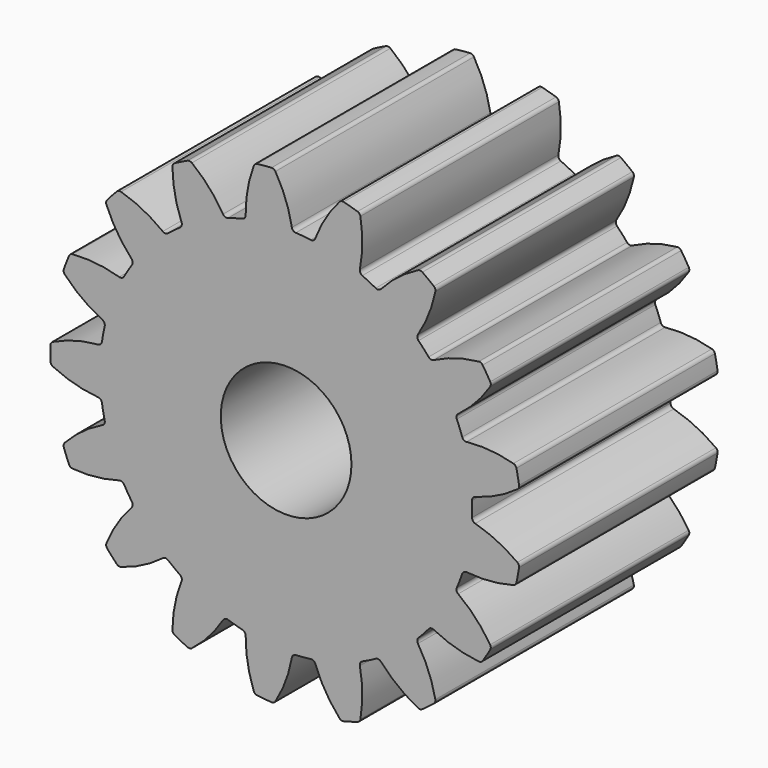
from build123d import *

# Parameters (mm, degrees)
F0_R     = 1.58
F1_DEPTH = 3


with BuildPart() as f1:
    # F0 (on Front) → F1 (new body, symmetric)
    with BuildSketch(Plane.XZ):
        with BuildLine():
            ThreePointArc((0.2343711724, 4.4938925392), (0.1720234101, 4.5194252055), (0.1391951016, 4.578259402))
            ThreePointArc((0.1391951016, 4.578259402), (-0.0102810807, 5.1278266107), (-0.2590107559, 5.6401749243))
            ThreePointArc((-0.2590107559, 5.6401749243), (-0.298954368, 5.6776678833), (-0.3525342184, 5.6890877674))
            ThreePointArc((-0.3525342184, 5.6890877674), (-0.5259296489, 5.6756848049), (-0.6988354807, 5.6569982297))
            ThreePointArc((-0.6988354807, 5.6569982297), (-0.7494046341, 5.6359275192), (-0.7817788172, 5.5917333296))
            ThreePointArc((-0.7817788172, 5.5917333296), (-0.9321296414, 5.0424047617), (-0.978077998, 4.4747288028))
            ThreePointArc((-0.978077998, 4.4747288028), (-0.999536587, 4.4108641844), (-1.056131145, 4.374309889))
            ThreePointArc((-1.056131145, 4.374309889), (-1.2314834553, 4.3282153943), (-1.4048366189, 4.2750946275))
            ThreePointArc((-1.4048366189, 4.2750946275), (-2.005822601, 4.0282348111), (-2.564995956, 3.6974039197))
            ThreePointArc((-2.564995956, 3.6974039197), (-2.7118558637, 3.5910775228), (-2.8543134403, 3.4789214973))
            ThreePointArc((-2.8543134403, 3.4789214973), (-3.3255401275, 3.0316303964), (-3.72744385, 2.5211430631))
            ThreePointArc((-3.72744385, 2.5211430631), (-3.8259771108, 2.3689447329), (-3.9182994153, 2.2129007415))
            ThreePointArc((-3.9182994153, 2.2129007415), (-4.1961250323, 1.6255874978), (-4.3864797977, 1.0043878657))
            ThreePointArc((-4.3864797977, 1.0043878657), (-4.4233789486, 0.8268728302), (-4.4530973423, 0.6480154785))
            ThreePointArc((-4.4530973423, 0.6480154785), (-4.5, 0), (-4.4530973423, -0.6480154785))
            ThreePointArc((-4.4530973423, -0.6480154785), (-4.4233789486, -0.8268728302), (-4.3864797977, -1.0043878657))
            ThreePointArc((-4.3864797977, -1.0043878657), (-4.1961250323, -1.6255874978), (-3.9182994153, -2.2129007415))
            ThreePointArc((-3.9182994153, -2.2129007415), (-3.8259771108, -2.3689447329), (-3.72744385, -2.5211430631))
            ThreePointArc((-3.72744385, -2.5211430631), (-3.3255401275, -3.0316303964), (-2.8543134403, -3.4789214973))
            ThreePointArc((-2.8543134403, -3.4789214973), (-2.7118558637, -3.5910775228), (-2.564995956, -3.6974039197))
            ThreePointArc((-2.564995956, -3.6974039197), (-2.005822601, -4.0282348111), (-1.4048366189, -4.2750946275))
            ThreePointArc((-1.4048366189, -4.2750946275), (-1.2314834553, -4.3282153943), (-1.056131145, -4.374309889))
            ThreePointArc((-1.056131145, -4.374309889), (-0.4152076176, -4.4808037933), (0.2343711724, -4.4938925392))
            ThreePointArc((0.2343711724, -4.4938925392), (0.4152076176, -4.4808037933), (0.5953700294, -4.4604410688))
            ThreePointArc((0.5953700294, -4.4604410688), (1.2314834553, -4.3282153943), (1.8419258381, -4.1057653619))
            ThreePointArc((1.8419258381, -4.1057653619), (2.005822601, -4.0282348111), (2.1664631823, -3.9441649661))
            ThreePointArc((2.1664631823, -3.9441649661), (2.7118558637, -3.5910775228), (3.200718213, -3.1631318216))
            ThreePointArc((3.200718213, -3.1631318216), (3.3255401275, -3.0316303964), (3.4449634776, -2.8952075294))
            ThreePointArc((3.4449634776, -2.8952075294), (3.8259771108, -2.3689447329), (4.1272358574, -1.7932998014))
            ThreePointArc((4.1272358574, -1.7932998014), (4.1961250323, -1.6255874978), (4.258202366, -1.4552362729))
            ThreePointArc((4.258202366, -1.4552362729), (4.4233789486, -0.8268728302), (4.4963474294, -0.1812727059))
            ThreePointArc((4.4963474294, -0.1812727059), (4.5, 0), (4.4963474294, 0.1812727059))
            ThreePointArc((4.4963474294, 0.1812727059), (4.4233789486, 0.8268728302), (4.258202366, 1.4552362729))
            ThreePointArc((4.258202366, 1.4552362729), (4.1961250323, 1.6255874978), (4.1272358574, 1.7932998014))
            ThreePointArc((4.1272358574, 1.7932998014), (3.8259771108, 2.3689447329), (3.4449634776, 2.8952075294))
            ThreePointArc((3.4449634776, 2.8952075294), (3.3255401275, 3.0316303964), (3.200718213, 3.1631318216))
            ThreePointArc((3.200718213, 3.1631318216), (2.7118558637, 3.5910775228), (2.1664631823, 3.9441649661))
            ThreePointArc((2.1664631823, 3.9441649661), (2.005822601, 4.0282348111), (1.8419258381, 4.1057653619))
            ThreePointArc((1.8419258381, 4.1057653619), (1.2314834553, 4.3282153943), (0.5953700294, 4.4604410688))
            ThreePointArc((0.5953700294, 4.4604410688), (0.4152076176, 4.4808037933), (0.2343711724, 4.4938925392))
        make_face()
        Circle(F0_R, mode=Mode.SUBTRACT)
        with BuildLine():
            ThreePointArc((0.7044279171, 4.5258828684), (0.6613478177, 4.4740826217), (0.5953700294, 4.4604410688))
            ThreePointArc((0.5953700294, 4.4604410688), (1.2314834553, 4.3282153943), (1.8419258381, 4.1057653619))
            ThreePointArc((1.8419258381, 4.1057653619), (1.7930117442, 4.1520964738), (1.7836536213, 4.218816681))
            ThreePointArc((1.7836536213, 4.218816681), (1.8427978066, 4.7852698663), (1.7959458503, 5.3528719629))
            ThreePointArc((1.7959458503, 5.3528719629), (1.7722435602, 5.402262403), (1.7264071756, 5.4322664022))
            ThreePointArc((1.7264071756, 5.4322664022), (1.5598790434, 5.4824061661), (1.3918987875, 5.5274422444))
            ThreePointArc((1.3918987875, 5.5274422444), (1.3371328376, 5.5260620773), (1.2909800283, 5.4965471266))
            ThreePointArc((1.2909800283, 5.4965471266), (0.9523416929, 5.0386264745), (0.7044279171, 4.5258828684))
        make_face()
        with BuildLine():
            ThreePointArc((2.2917969387, 3.9657913738), (2.2329135349, 3.9330514092), (2.1664631823, 3.9441649661))
            ThreePointArc((2.1664631823, 3.9441649661), (2.7118558637, 3.5910775228), (3.200718213, 3.1631318216))
            ThreePointArc((3.200718213, 3.1631318216), (3.1718439068, 3.2240041056), (3.1872198359, 3.2895993899))
            ThreePointArc((3.1872198359, 3.2895993899), (3.4469966387, 3.7964359105), (3.6083500177, 4.3426339816))
            ThreePointArc((3.6083500177, 4.3426339816), (3.6040901753, 4.3972514501), (3.5721877142, 4.4417873581))
            ThreePointArc((3.5721877142, 4.4417873581), (3.4350174274, 4.5486981955), (3.2946494116, 4.6513745554))
            ThreePointArc((3.2946494116, 4.6513745554), (3.2430831104, 4.6698713308), (3.1893848674, 4.6590217768))
            ThreePointArc((3.1893848674, 4.6590217768), (2.7081940045, 4.3543537619), (2.2917969387, 3.9657913738))
        make_face()
        with BuildLine():
            ThreePointArc((3.5696460844, 2.870097779), (3.5029119062, 2.8608398101), (3.4449634776, 2.8952075294))
            ThreePointArc((3.4449634776, 2.8952075294), (3.8259771108, 2.3689447329), (4.1272358574, 1.7932998014))
            ThreePointArc((4.1272358574, 1.7932998014), (4.122300974, 1.8604921182), (4.1603343507, 1.9161034729))
            ThreePointArc((4.1603343507, 1.9161034729), (4.5856594743, 2.2948722481), (4.9334265206, 2.7458992178))
            ThreePointArc((4.9334265206, 2.7458992178), (4.9491844412, 2.7983673229), (4.9355245078, 2.8514203185))
            ThreePointArc((4.9355245078, 2.8514203185), (4.8462376737, 3.0006633284), (4.7524393764, 3.1471129586))
            ThreePointArc((4.7524393764, 3.1471129586), (4.7110370385, 3.1829885845), (4.6570456072, 3.1922697194))
            ThreePointArc((4.6570456072, 3.1922697194), (4.0982897091, 3.0820014455), (3.5696460844, 2.870097779))
        make_face()
        with BuildLine():
            ThreePointArc((-2.564995956, 3.6974039197), (-2.005822601, 4.0282348111), (-1.4048366189, 4.2750946275))
            ThreePointArc((-1.4048366189, 4.2750946275), (-1.4721976388, 4.2763805203), (-1.5240624879, 4.3193828218))
            ThreePointArc((-1.5240624879, 4.3193828218), (-1.861971451, 4.7778419569), (-2.2789865242, 5.1657410089))
            ThreePointArc((-2.2789865242, 5.1657410089), (-2.3297768522, 5.186272855), (-2.3838639127, 5.1775663053))
            ThreePointArc((-2.3838639127, 5.1775663053), (-2.5407086279, 5.1024307607), (-2.6951881448, 5.0225452576))
            ThreePointArc((-2.6951881448, 5.0225452576), (-2.7347308575, 4.9846297199), (-2.7489541015, 4.9317249616))
            ThreePointArc((-2.7489541015, 4.9317249616), (-2.6907117026, 4.365178345), (-2.5284890598, 3.819237817))
            ThreePointArc((-2.5284890598, 3.819237817), (-2.5254280369, 3.7519340976), (-2.564995956, 3.6974039197))
        make_face()
        with BuildLine():
            ThreePointArc((4.3653947463, 1.3867815754), (4.2998226143, 1.4022559422), (4.258202366, 1.4552362729))
            ThreePointArc((4.258202366, 1.4552362729), (4.4233789486, 0.8268728302), (4.4963474294, 0.1812727059))
            ThreePointArc((4.4963474294, 0.1812727059), (4.5160184522, 0.2457103609), (4.5715726582, 0.2838271644))
            ThreePointArc((4.5715726582, 0.2838271644), (5.1050035879, 0.4833733724), (5.5922164349, 0.778315549))
            ThreePointArc((5.5922164349, 0.778315549), (5.625863924, 0.8215481825), (5.6322913679, 0.8759531647))
            ThreePointArc((5.6322913679, 0.8759531647), (5.6029466682, 1.0473722516), (5.5683860692, 1.2178163179))
            ThreePointArc((5.5683860692, 1.2178163179), (5.5427393098, 1.2662255923), (5.4957465321, 1.2943839475))
            ThreePointArc((5.4957465321, 1.2943839475), (4.9348886791, 1.3934077558), (4.3653947463, 1.3867815754))
        make_face()
        with BuildLine():
            ThreePointArc((-3.72744385, 2.5211430631), (-3.3255401275, 3.0316303964), (-2.8543134403, 3.4789214973))
            ThreePointArc((-2.8543134403, 3.4789214973), (-2.9175902387, 3.4557869496), (-2.9814869933, 3.477149657))
            ThreePointArc((-2.9814869933, 3.477149657), (-3.4621922593, 3.782583272), (-3.9911725342, 3.9936451459))
            ThreePointArc((-3.9911725342, 3.9936451459), (-4.0459500628, 3.9944429394), (-4.0932395762, 3.9667858238))
            ThreePointArc((-4.0932395762, 3.9667858238), (-4.2123508282, 3.8400651688), (-4.3275407154, 3.7097697175))
            ThreePointArc((-4.3275407154, 3.7097697175), (-4.3507165248, 3.6601300562), (-4.3448679018, 3.6056598099))
            ThreePointArc((-4.3448679018, 3.6056598099), (-4.0858982385, 3.0984104044), (-3.7374136632, 2.647937601))
            ThreePointArc((-3.7374136632, 2.647937601), (-3.7102464366, 2.5862845206), (-3.72744385, 2.5211430631))
        make_face()
        with BuildLine():
            ThreePointArc((4.5715726582, -0.2838271644), (4.5160184522, -0.2457103609), (4.4963474294, -0.1812727059))
            ThreePointArc((4.4963474294, -0.1812727059), (4.4233789486, -0.8268728302), (4.258202366, -1.4552362729))
            ThreePointArc((4.258202366, -1.4552362729), (4.2998226143, -1.4022559422), (4.3653947463, -1.3867815754))
            ThreePointArc((4.3653947463, -1.3867815754), (4.9348886791, -1.3934077558), (5.4957465321, -1.2943839475))
            ThreePointArc((5.4957465321, -1.2943839475), (5.5427393098, -1.2662255923), (5.5683860692, -1.2178163179))
            ThreePointArc((5.5683860692, -1.2178163179), (5.6029466682, -1.0473722516), (5.6322913679, -0.8759531647))
            ThreePointArc((5.6322913679, -0.8759531647), (5.625863924, -0.8215481825), (5.5922164349, -0.778315549))
            ThreePointArc((5.5922164349, -0.778315549), (5.1050035879, -0.4833733724), (4.5715726582, -0.2838271644))
        make_face()
        with BuildLine():
            ThreePointArc((-4.3864797977, 1.0043878657), (-4.1961250323, 1.6255874978), (-3.9182994153, 2.2129007415))
            ThreePointArc((-3.9182994153, 2.2129007415), (-3.9689461101, 2.1684702021), (-4.0362451593, 2.1653081634))
            ThreePointArc((-4.0362451593, 2.1653081634), (-4.5948248183, 2.2764657561), (-5.1643285775, 2.2821853764))
            ThreePointArc((-5.1643285775, 2.2821853764), (-5.2156952981, 2.263141371), (-5.2498005535, 2.2202689361))
            ThreePointArc((-5.2498005535, 2.2202689361), (-5.3150917076, 2.0590774973), (-5.3754349326, 1.8959692205))
            ThreePointArc((-5.3754349326, 1.8959692205), (-5.3791138174, 1.8413095468), (-5.3539832163, 1.7926303212))
            ThreePointArc((-5.3539832163, 1.7926303212), (-4.9292615766, 1.4131849699), (-4.4415798417, 1.1190187392))
            ThreePointArc((-4.4415798417, 1.1190187392), (-4.3939754959, 1.0713428881), (-4.3864797977, 1.0043878657))
        make_face()
        with BuildLine():
            ThreePointArc((4.1603343507, -1.9161034729), (4.122300974, -1.8604921182), (4.1272358574, -1.7932998014))
            ThreePointArc((4.1272358574, -1.7932998014), (3.8259771108, -2.3689447329), (3.4449634776, -2.8952075294))
            ThreePointArc((3.4449634776, -2.8952075294), (3.5029119062, -2.8608398101), (3.5696460844, -2.870097779))
            ThreePointArc((3.5696460844, -2.870097779), (4.0982897091, -3.0820014455), (4.6570456072, -3.1922697194))
            ThreePointArc((4.6570456072, -3.1922697194), (4.7110370385, -3.1829885845), (4.7524393764, -3.1471129586))
            ThreePointArc((4.7524393764, -3.1471129586), (4.8462376737, -3.0006633284), (4.9355245078, -2.8514203185))
            ThreePointArc((4.9355245078, -2.8514203185), (4.9491844412, -2.7983673229), (4.9334265206, -2.7458992178))
            ThreePointArc((4.9334265206, -2.7458992178), (4.5856594743, -2.2948722481), (4.1603343507, -1.9161034729))
        make_face()
        with BuildLine():
            ThreePointArc((-4.4530973423, -0.6480154785), (-4.5, 0), (-4.4530973423, 0.6480154785))
            ThreePointArc((-4.4530973423, 0.6480154785), (-4.4842738165, 0.588289538), (-4.5458860509, 0.561029804))
            ThreePointArc((-4.5458860509, 0.561029804), (-5.1069008248, 0.4628989256), (-5.64001343, 0.2625038257))
            ThreePointArc((-5.64001343, 0.2625038257), (-5.6810319822, 0.2261900198), (-5.6973468759, 0.1738924256))
            ThreePointArc((-5.6973468759, 0.1738924256), (-5.7, 0), (-5.6973468759, -0.1738924256))
            ThreePointArc((-5.6973468759, -0.1738924256), (-5.6810319822, -0.2261900198), (-5.64001343, -0.2625038257))
            ThreePointArc((-5.64001343, -0.2625038257), (-5.1069008248, -0.4628989256), (-4.5458860509, -0.561029804))
            ThreePointArc((-4.5458860509, -0.561029804), (-4.4842738165, -0.588289538), (-4.4530973423, -0.6480154785))
        make_face()
        with BuildLine():
            ThreePointArc((3.1872198359, -3.2895993899), (3.1718439068, -3.2240041056), (3.200718213, -3.1631318216))
            ThreePointArc((3.200718213, -3.1631318216), (2.7118558637, -3.5910775228), (2.1664631823, -3.9441649661))
            ThreePointArc((2.1664631823, -3.9441649661), (2.2329135349, -3.9330514092), (2.2917969387, -3.9657913738))
            ThreePointArc((2.2917969387, -3.9657913738), (2.7081940045, -4.3543537619), (3.1893848674, -4.6590217768))
            ThreePointArc((3.1893848674, -4.6590217768), (3.2430831104, -4.6698713308), (3.2946494116, -4.6513745554))
            ThreePointArc((3.2946494116, -4.6513745554), (3.4350174274, -4.5486981955), (3.5721877142, -4.4417873581))
            ThreePointArc((3.5721877142, -4.4417873581), (3.6040901753, -4.3972514501), (3.6083500177, -4.3426339816))
            ThreePointArc((3.6083500177, -4.3426339816), (3.4469966387, -3.7964359105), (3.1872198359, -3.2895993899))
        make_face()
        with BuildLine():
            ThreePointArc((-3.9182994153, -2.2129007415), (-4.1961250323, -1.6255874978), (-4.3864797977, -1.0043878657))
            ThreePointArc((-4.3864797977, -1.0043878657), (-4.3939754959, -1.0713428881), (-4.4415798417, -1.1190187392))
            ThreePointArc((-4.4415798417, -1.1190187392), (-4.9292615766, -1.4131849699), (-5.3539832163, -1.7926303212))
            ThreePointArc((-5.3539832163, -1.7926303212), (-5.3791138174, -1.8413095468), (-5.3754349326, -1.8959692205))
            ThreePointArc((-5.3754349326, -1.8959692205), (-5.3150917076, -2.0590774973), (-5.2498005535, -2.2202689361))
            ThreePointArc((-5.2498005535, -2.2202689361), (-5.2156952981, -2.263141371), (-5.1643285775, -2.2821853764))
            ThreePointArc((-5.1643285775, -2.2821853764), (-4.5948248183, -2.2764657561), (-4.0362451593, -2.1653081634))
            ThreePointArc((-4.0362451593, -2.1653081634), (-3.9689461101, -2.1684702021), (-3.9182994153, -2.2129007415))
        make_face()
        with BuildLine():
            ThreePointArc((1.7836536213, -4.218816681), (1.7930117442, -4.1520964738), (1.8419258381, -4.1057653619))
            ThreePointArc((1.8419258381, -4.1057653619), (1.2314834553, -4.3282153943), (0.5953700294, -4.4604410688))
            ThreePointArc((0.5953700294, -4.4604410688), (0.6613478177, -4.4740826217), (0.7044279171, -4.5258828684))
            ThreePointArc((0.7044279171, -4.5258828684), (0.9523416929, -5.0386264745), (1.2909800283, -5.4965471266))
            ThreePointArc((1.2909800283, -5.4965471266), (1.3371328376, -5.5260620773), (1.3918987875, -5.5274422444))
            ThreePointArc((1.3918987875, -5.5274422444), (1.5598790434, -5.4824061661), (1.7264071756, -5.4322664022))
            ThreePointArc((1.7264071756, -5.4322664022), (1.7722435602, -5.402262403), (1.7959458503, -5.3528719629))
            ThreePointArc((1.7959458503, -5.3528719629), (1.8427978066, -4.7852698663), (1.7836536213, -4.218816681))
        make_face()
        with BuildLine():
            ThreePointArc((-2.8543134403, -3.4789214973), (-3.3255401275, -3.0316303964), (-3.72744385, -2.5211430631))
            ThreePointArc((-3.72744385, -2.5211430631), (-3.7102464366, -2.5862845206), (-3.7374136632, -2.647937601))
            ThreePointArc((-3.7374136632, -2.647937601), (-4.0858982385, -3.0984104044), (-4.3448679018, -3.6056598099))
            ThreePointArc((-4.3448679018, -3.6056598099), (-4.3507165248, -3.6601300562), (-4.3275407154, -3.7097697175))
            ThreePointArc((-4.3275407154, -3.7097697175), (-4.2123508282, -3.8400651688), (-4.0932395762, -3.9667858238))
            ThreePointArc((-4.0932395762, -3.9667858238), (-4.0459500628, -3.9944429394), (-3.9911725342, -3.9936451459))
            ThreePointArc((-3.9911725342, -3.9936451459), (-3.4621922593, -3.782583272), (-2.9814869933, -3.477149657))
            ThreePointArc((-2.9814869933, -3.477149657), (-2.9175902387, -3.4557869496), (-2.8543134403, -3.4789214973))
        make_face()
        with BuildLine():
            ThreePointArc((0.1391951016, -4.578259402), (0.1720234101, -4.5194252055), (0.2343711724, -4.4938925392))
            ThreePointArc((0.2343711724, -4.4938925392), (-0.4152076176, -4.4808037933), (-1.056131145, -4.374309889))
            ThreePointArc((-1.056131145, -4.374309889), (-0.999536587, -4.4108641844), (-0.978077998, -4.4747288028))
            ThreePointArc((-0.978077998, -4.4747288028), (-0.9321296414, -5.0424047617), (-0.7817788172, -5.5917333296))
            ThreePointArc((-0.7817788172, -5.5917333296), (-0.7494046341, -5.6359275192), (-0.6988354807, -5.6569982297))
            ThreePointArc((-0.6988354807, -5.6569982297), (-0.5259296489, -5.6756848049), (-0.3525342184, -5.6890877674))
            ThreePointArc((-0.3525342184, -5.6890877674), (-0.298954368, -5.6776678833), (-0.2590107559, -5.6401749243))
            ThreePointArc((-0.2590107559, -5.6401749243), (-0.0102810807, -5.1278266107), (0.1391951016, -4.578259402))
        make_face()
        with BuildLine():
            ThreePointArc((-1.4048366189, -4.2750946275), (-2.005822601, -4.0282348111), (-2.564995956, -3.6974039197))
            ThreePointArc((-2.564995956, -3.6974039197), (-2.5254280369, -3.7519340976), (-2.5284890598, -3.819237817))
            ThreePointArc((-2.5284890598, -3.819237817), (-2.6907117026, -4.365178345), (-2.7489541015, -4.9317249616))
            ThreePointArc((-2.7489541015, -4.9317249616), (-2.7347308575, -4.9846297199), (-2.6951881448, -5.0225452576))
            ThreePointArc((-2.6951881448, -5.0225452576), (-2.5407086279, -5.1024307607), (-2.3838639127, -5.1775663053))
            ThreePointArc((-2.3838639127, -5.1775663053), (-2.3297768522, -5.186272855), (-2.2789865242, -5.1657410089))
            ThreePointArc((-2.2789865242, -5.1657410089), (-1.861971451, -4.7778419569), (-1.5240624879, -4.3193828218))
            ThreePointArc((-1.5240624879, -4.3193828218), (-1.4721976388, -4.2763805203), (-1.4048366189, -4.2750946275))
        make_face()
    extrude(amount=F1_DEPTH, both=True)


solid = f1.part
